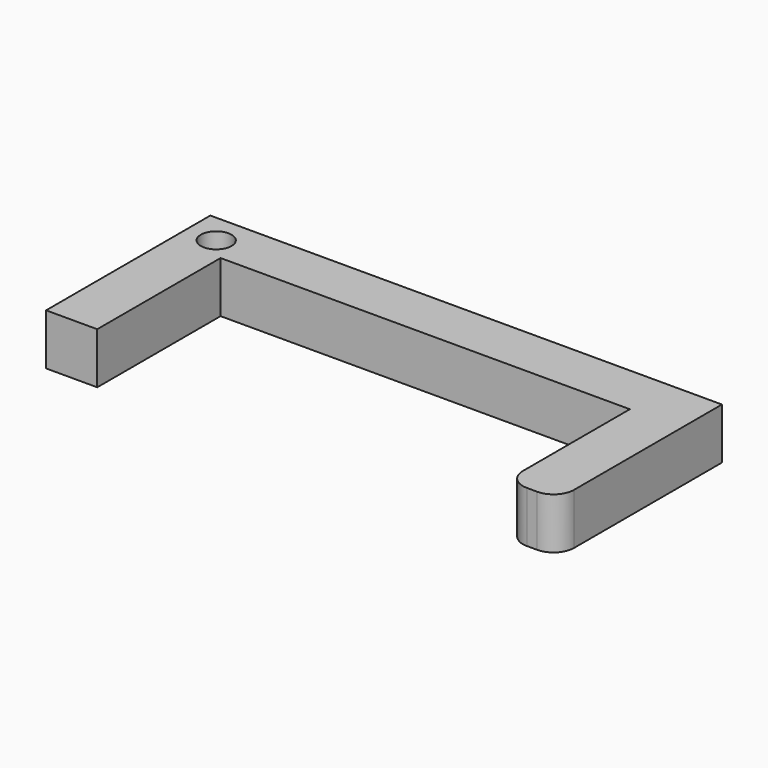
from build123d import *

# Parameters (mm, degrees)
F0_R     = 1.5
F1_DEPTH = 5


with BuildPart() as f1:
    # F0 (on Top) → F1 (new body)
    with BuildSketch(Plane.XY):
        with BuildLine():
            Line((0, 20.066716), (0, 0))
            Line((0, 0), (5, 0))
            Line((5, 0), (5, 15.066716))
            Line((5, 15.066716), (45, 15.066716))
            Line((45, 15.066716), (45, 2))
            ThreePointArc((45, 2), (45.585786, 0.585786), (47, 0))
            Line((47, 0), (48, 0))
            ThreePointArc((48, 0), (49.414214, 0.585786), (50, 2))
            Line((50, 2), (50, 20.066716))
            Line((50, 20.066716), (0, 20.066716))
        make_face()
        with Locations((2.913021, 17.143138)):
            Circle(F0_R, mode=Mode.SUBTRACT)
    extrude(amount=F1_DEPTH)


solid = f1.part
